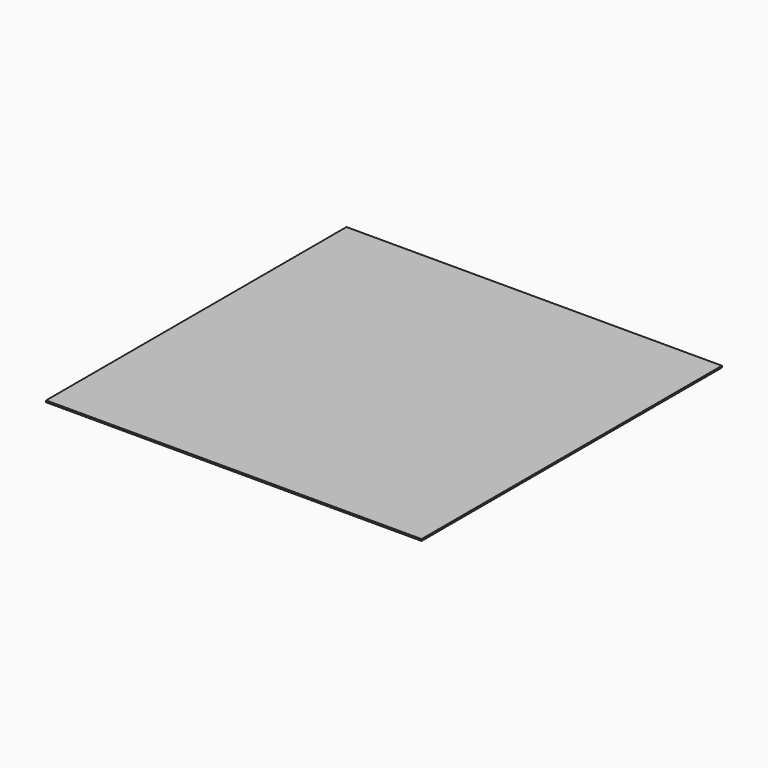
from build123d import *

# Parameters (mm, degrees)
F0_W     = 660
F0_H     = 660
F1_DEPTH = 3


with BuildPart() as f1:
    # F0 (on Top) → F1 (new body)
    with BuildSketch(Plane.XY):
        Rectangle(F0_W, F0_H)
        with BuildLine():
            ThreePointArc((250, -245), (248.535534, -248.535534), (245, -250))
            Line((245, -250), (-245, -250))
            ThreePointArc((-245, -250), (-248.535534, -248.535534), (-250, -245))
            Line((-250, -245), (-250, 245))
            ThreePointArc((-250, 245), (-248.535534, 248.535534), (-245, 250))
            Line((-245, 250), (245, 250))
            ThreePointArc((245, 250), (248.535534, 248.535534), (250, 245))
            Line((250, 245), (250, -245))
        make_face(mode=Mode.SUBTRACT)
        with BuildLine():
            Line((-245, -250), (245, -250))
            ThreePointArc((245, -250), (248.535534, -248.535534), (250, -245))
            Line((250, -245), (250, 245))
            ThreePointArc((250, 245), (248.535534, 248.535534), (245, 250))
            Line((245, 250), (-245, 250))
            ThreePointArc((-245, 250), (-248.535534, 248.535534), (-250, 245))
            Line((-250, 245), (-250, -245))
            ThreePointArc((-250, -245), (-248.535534, -248.535534), (-245, -250))
        make_face()
    extrude(amount=F1_DEPTH)


solid = f1.part
